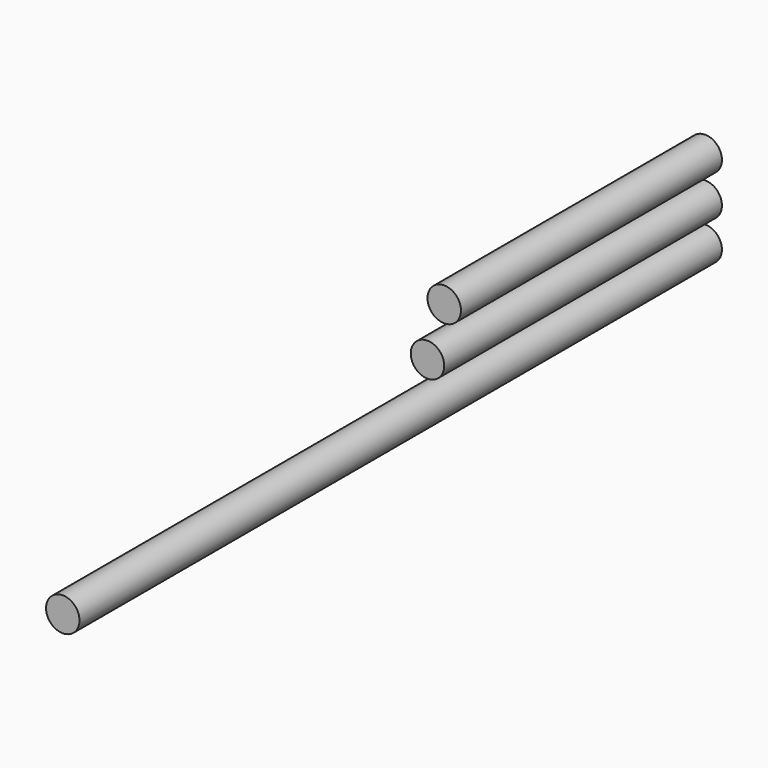
from build123d import *

# Parameters (mm, degrees)
F0_R     = 6.35
F1_DEPTH = 304.8
F2_DEPTH = 123.825
F3_DEPTH = 131.7625


with BuildPart() as f1:
    # F0 (on Front) → F1 (new body)
    with BuildSketch(Plane.XZ):
        Circle(F0_R)
    extrude(amount=F1_DEPTH)


with BuildPart() as f2:
    # F0 (on Front) → F2 (new body)
    with BuildSketch(Plane.XZ):
        with Locations((0, 30.009745)):
            Circle(F0_R)
    extrude(amount=F2_DEPTH)


with BuildPart() as f3:
    # F0 (on Front) → F3 (new body)
    with BuildSketch(Plane.XZ):
        with Locations((0, 14.750553)):
            Circle(F0_R)
    extrude(amount=F3_DEPTH)


solid = Compound([f1.part, f2.part, f3.part])
